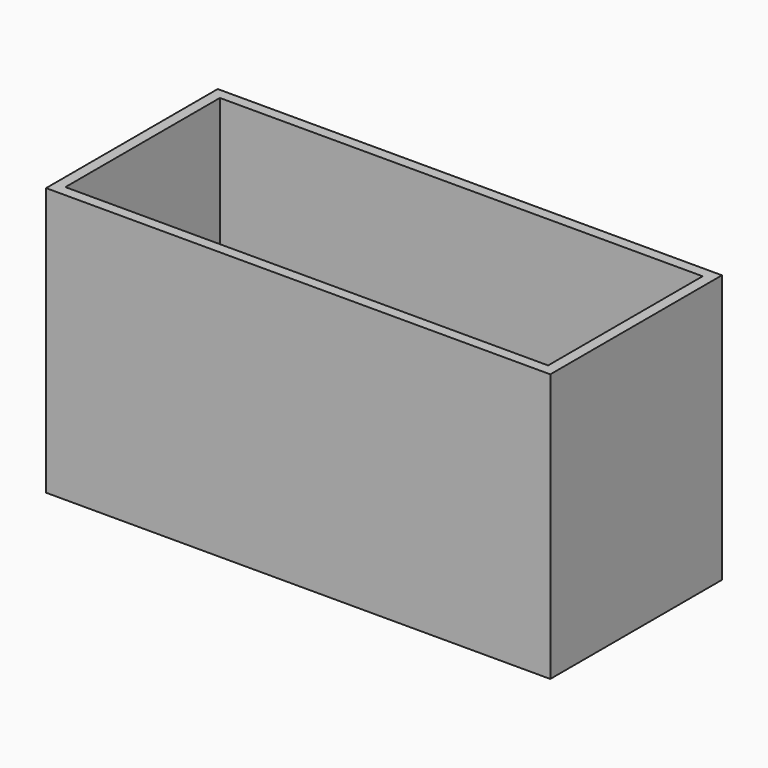
from build123d import *

# Parameters (mm, degrees)
F0_W     = 1143
F0_H     = 457.2
F1_DEPTH = 609.6
F2_T     = 25.4
F3_W     = 88.9248847961
F3_H     = 13.1702423096
F3_W_2   = 136.2295150757
F3_H_2   = 14.2334699631
F4_DEPTH = 304.8


with BuildPart() as f1:
    # F0 (on Top) → F1 (new body)
    with BuildSketch(Plane.XY):
        with Locations((-2325.7739219427, -2123.2131924457)):
            Rectangle(F0_W, F0_H)
    extrude(amount=F1_DEPTH)

    # F2
    f2_openings = [f1.faces().sort_by_distance(p)[0] for p in [
        (-2325.773922, -2123.213192, 609.6),
    ]]
    offset(amount=F2_T, openings=f2_openings, kind=Kind.INTERSECTION)

    # F3 (on face) → F4 (join)
    with BuildSketch(Plane.XY):
        Polygon((-2361.9454296121, -1930.8880567551), (-2844.1109657288, -1930.8880567551), (-2844.1109657288, -2196.1047649384), (-2830.2676677704, -2196.1047649384), (-2830.2676677704, -1966.5903649384), (-2519.6123123169, -1966.5903649384), (-2519.6123123169, -2196.1047649384), (-2361.9454296121, -2196.1047649384), align=None)
        with Locations((-2787.2500419617, -1947.9447603226)):
            Rectangle(F3_W, F3_H, mode=Mode.SUBTRACT)
        with Locations((-2680.9844970703, -1947.9447603226)):
            Rectangle(F3_W, F3_H, mode=Mode.SUBTRACT)
        with Locations((-2556.2350749969, -1948.2466578484)):
            Rectangle(F3_W_2, F3_H_2, mode=Mode.SUBTRACT)
        with Locations((-2420.494556427, -1947.9447603226)):
            Rectangle(F3_W, F3_H, mode=Mode.SUBTRACT)
        Polygon((-1985.6573343277, -1930.8880567551), (-2361.9454296121, -1930.8880567551), (-2361.9454296121, -2196.1047649384), (-1985.6573343277, -2196.1047649384), (-1985.6573343277, -2163.6300086975), (-2227.4553775787, -2163.6300086975), (-2227.4553775787, -2072.5255012512), (-2258.9621543884, -1980.6768894196), (-2116.1458492279, -1992.0384883881), (-2116.1458492279, -2072.5255012512), (-1985.6573343277, -2072.5255012512), align=None)
        Polygon((-2830.2676677704, -1966.5903649384), (-2830.2676677704, -2196.1047649384), (-2785.5479717255, -2196.1047649384), (-2785.5479717255, -2002.1357536316), (-2796.3330745697, -2002.1357536316), (-2796.3330745697, -2177.7493953705), (-2816.2701129913, -2177.7493953705), (-2816.2701129913, -1978.4531593323), (-2532.9463481903, -1978.4531593323), (-2532.9463481903, -2002.1357536316), (-2764.5108699799, -2002.1357536316), (-2764.5108699799, -2013.4794712067), (-2532.8149795532, -2013.4794712067), (-2532.8149795532, -2094.2807197571), (-2768.3706283569, -2094.2807197571), (-2768.3706283569, -2196.1047649384), (-2708.4498405457, -2196.1047649384), (-2519.6123123169, -2196.1047649384), (-2519.6123123169, -1966.5903649384), align=None)
    extrude(amount=F4_DEPTH)


with BuildPart() as f4:
    # F3 (on face) → F4, piece 2 (new body)
    with BuildSketch(Plane.XY):
        with Locations((-2810.9855651855, -1584.016084671)):
            Rectangle(F3_W, F3_H)
    extrude(amount=F4_DEPTH)


solid = Compound([f1.part, f4.part])
